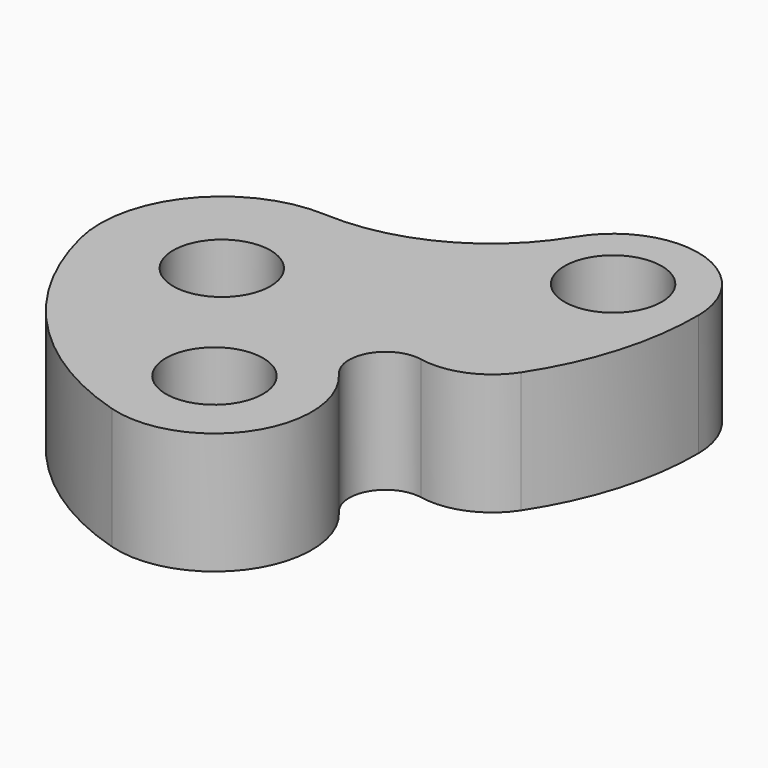
from build123d import *

# Parameters (mm, degrees)
F0_R     = 10
F1_DEPTH = 25


with BuildPart() as f1:
    # F0 (on Top) → F1 (new body)
    with BuildSketch(Plane.XY):
        with BuildLine():
            ThreePointArc((-0.125005, 52.919645), (-15.611975, 38.354571), (-36.374445, 33.7821))
            ThreePointArc((-36.374445, 33.7821), (-56.934508, 24.760874), (-61.964058, 2.879321))
            ThreePointArc((-61.964058, 2.879321), (-47.191722, -24.185276), (-20.928604, -40.339624))
            ThreePointArc((-20.928604, -40.339624), (1.586671, -32.088196), (0, -8.161096))
            ThreePointArc((0, -8.161096), (-0.793901, 0.488122), (7.110988, 4.087009))
            ThreePointArc((7.110988, 4.087009), (15.789149, 4.999968), (22.49075, 10.588574))
            ThreePointArc((22.49075, 10.588574), (29.875343, 26.539907), (32.320302, 43.946786))
            ThreePointArc((32.320302, 43.946786), (19.485381, 60.683049), (-0.125005, 52.919645))
        make_face()
        with Locations((-15.179211, -21.183829)):
            Circle(F0_R, mode=Mode.SUBTRACT)
        with Locations((-37.679211, 8.816171)):
            Circle(F0_R, mode=Mode.SUBTRACT)
        with Locations((14.820789, 43.816171)):
            Circle(F0_R, mode=Mode.SUBTRACT)
    extrude(amount=F1_DEPTH)


solid = f1.part
